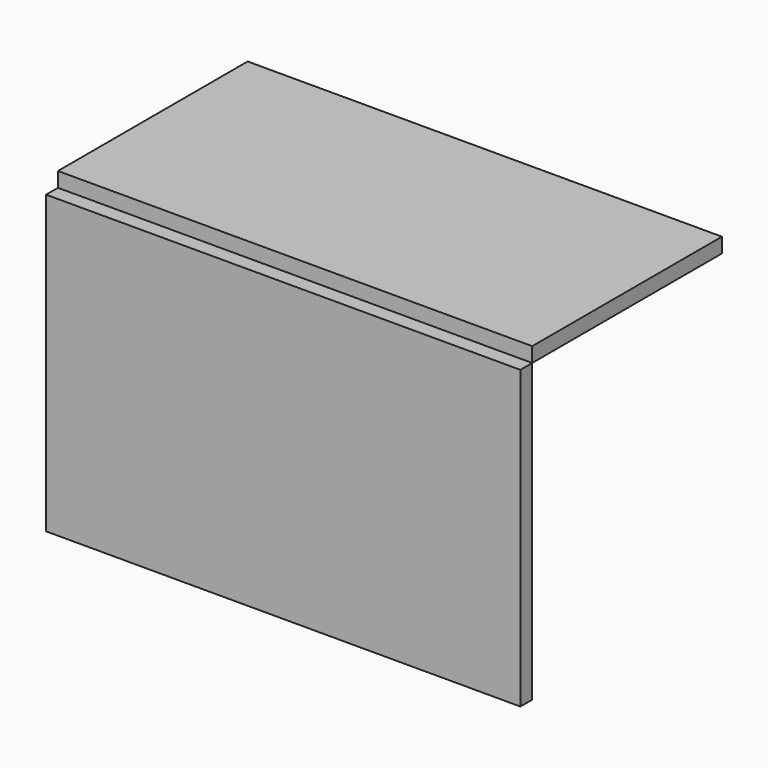
from build123d import *

# Parameters (mm, degrees)
F0_W     = 1600
F0_H     = 1000
F1_DEPTH = 50
F2_W     = 1600
F2_H     = 800
F3_DEPTH = 50


with BuildPart() as f1:
    # F0 (on Front) → F1 (new body)
    with BuildSketch(Plane.XZ):
        with Locations((780.901623, 500)):
            Rectangle(F0_W, F0_H)
    extrude(amount=F1_DEPTH)


with BuildPart() as f3:
    # F2 (on face) → F3 (new body)
    with BuildSketch(Plane.XY.offset(1000)):
        with Locations((780.901623, 400)):
            Rectangle(F2_W, F2_H)
    extrude(amount=F3_DEPTH)


solid = Compound([f1.part, f3.part])
